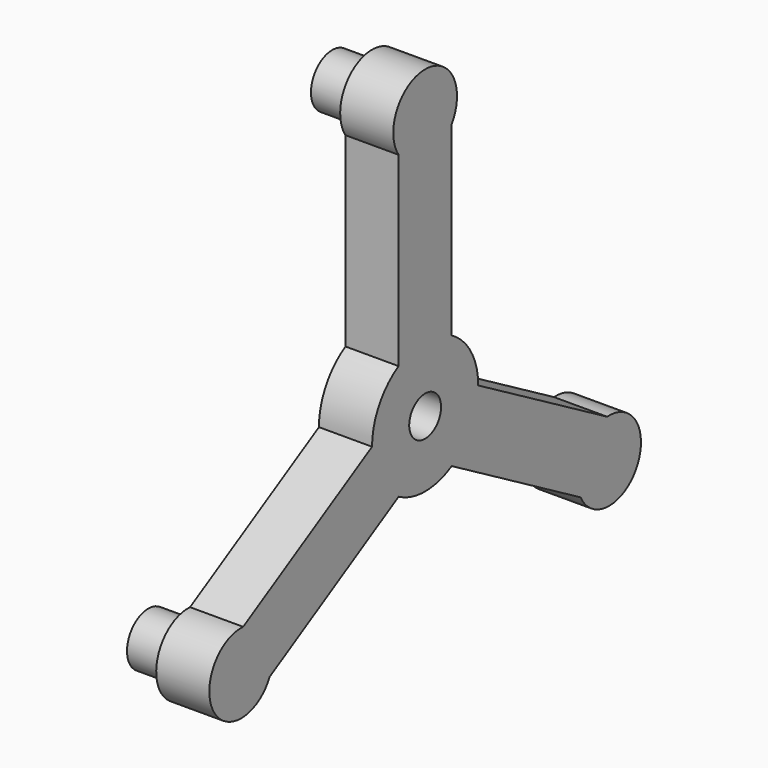
from build123d import *

# Parameters (mm, degrees)
SKETCH_0_R         = 7.5
PAD_DEPTH          = 20
POLARPATTERN_COUNT = 3
SKETCH_R           = 10
PAD001_DEPTH       = 15


with BuildPart() as part:
    with BuildSketch(Plane.YZ):
        with BuildLine():
            ThreePointArc((-12.5, 21.650635), (0, -25), (12.5, 21.650635))
            Line((12.5, 91.708438), (12.5, 21.650635))
            ThreePointArc((12.5, 91.708438), (0, 115), (-12.5, 91.708438))
            Line((-12.5, 91.708438), (-12.5, 21.650635))
        make_face()
        Circle(SKETCH_0_R, mode=Mode.SUBTRACT)
    pad = extrude(amount=PAD_DEPTH)

    # PolarPattern: Pad ×3 about axis
    polarpattern_axis = Axis((0, 0, 0), (1, 0, 0))
    for i in range(1, POLARPATTERN_COUNT):
        add(pad.rotate(polarpattern_axis, i * 360 / POLARPATTERN_COUNT))

    with BuildSketch(Plane.YZ):
        with Locations((0, 100)):
            Circle(SKETCH_R)
        with Locations((86.60254, -50)):
            Circle(SKETCH_R)
        with Locations((-86.60254, -50)):
            Circle(SKETCH_R)
    extrude(amount=-PAD001_DEPTH)


solid = part.part
